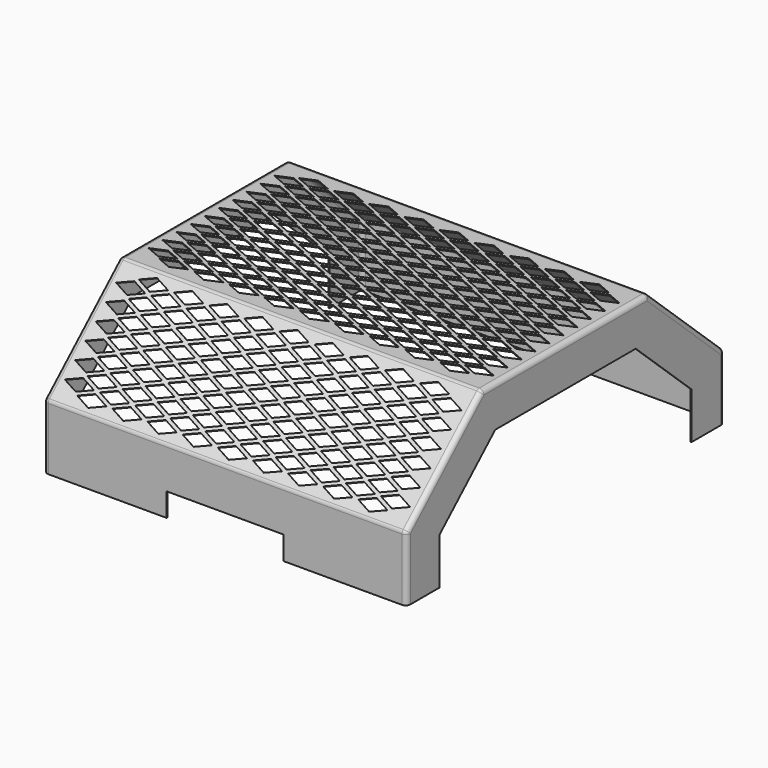
from build123d import *

# Parameters (mm, degrees)
F1_DEPTH = 196.85
F2_R     = 5.08
F3_T     = -0.9525
F4_W     = 127
F4_H     = 25.4
F5_DEPTH = 25.4
F7_DEPTH = 25.4
F9_DEPTH = 25.4


with BuildPart() as f1:
    # F0 (on Right) → F1 (new body, symmetric)
    with BuildSketch(Plane.YZ):
        Polygon((112.5929130825, 164.4600917374), (0, 164.4600917374), (-112.5929130825, 164.4600917374), (-215.3791988479, 69.85), (-215.3791988479, 0), (-170.9291988479, 0), (-170.9291988479, 50.3508381483), (-95.25, 120.0100917374), (0, 120.0100917374), (95.25, 120.0100917374), (170.9291988479, 50.3508381483), (170.9291988479, 0), (215.3791988479, 0), (215.3791988479, 69.85), align=None)
    extrude(amount=F1_DEPTH, both=True)

    # F2
    f2_edges = [f1.edges().sort_by_distance(p)[0] for p in [
        (-196.85, 0, 164.460092),
        (196.85, 0, 164.460092),
        (196.85, -163.986056, 117.155046),
        (196.85, -215.379199, 34.925),
        (196.85, 163.986056, 117.155046),
        (196.85, 215.379199, 34.925),
        (-196.85, 215.379199, 34.925),
        (-196.85, 163.986056, 117.155046),
        (-196.85, -163.986056, 117.155046),
        (-196.85, -215.379199, 34.925),
        (0, -215.379199, 69.85),
        (0, -112.592913, 164.460092),
        (0, 112.592913, 164.460092),
        (0, 215.379199, 69.85),
    ]]
    fillet(f2_edges, radius=F2_R)

    # F3
    f3_openings = [f1.faces().sort_by_distance(p)[0] for p in [
        (0, 0, 120.010092),
        (0, 133.089599, 85.180465),
        (0, 170.929199, 25.175419),
        (0, 193.140842, 0),
        (0, -133.089599, 85.180465),
        (0, -170.929199, 25.175419),
        (0, -193.140842, 0),
    ]]
    offset(amount=F3_T, openings=f3_openings)

    # F4 (on face) → F5 (cut)
    with BuildSketch(Plane.XZ.offset(215.3791988479)):
        with Locations((0, 12.7)):
            Rectangle(F4_W, F4_H)
    extrude(amount=-F5_DEPTH, mode=Mode.SUBTRACT)

    # F6 (on face) → F7 (cut)
    with BuildSketch(Plane.XY.offset(164.4600917374)):
        Polygon((0, 6.76275), (-15.875, 0), (0, -6.76275), (15.875, 0), align=None)
        Polygon((0, 25.68575), (-15.875, 18.923), (0, 12.16025), (15.875, 18.923), align=None)
        Polygon((0, 44.60875), (-15.875, 37.846), (0, 31.08325), (15.875, 37.846), align=None)
        Polygon((0, 63.53175), (-15.875, 56.769), (0, 50.00625), (15.875, 56.769), align=None)
        Polygon((0, 82.45475), (-15.875, 75.692), (0, 68.92925), (15.875, 75.692), align=None)
        Polygon((0, 101.37775), (-15.875, 94.615), (0, 87.85225), (15.875, 94.615), align=None)
        Polygon((38.1, 6.76275), (22.225, 0), (38.1, -6.76275), (53.975, 0), align=None)
        Polygon((38.1, 25.68575), (22.225, 18.923), (38.1, 12.16025), (53.975, 18.923), align=None)
        Polygon((38.1, 44.60875), (22.225, 37.846), (38.1, 31.08325), (53.975, 37.846), align=None)
        Polygon((38.1, 63.53175), (22.225, 56.769), (38.1, 50.00625), (53.975, 56.769), align=None)
        Polygon((38.1, 82.45475), (22.225, 75.692), (38.1, 68.92925), (53.975, 75.692), align=None)
        Polygon((38.1, 101.37775), (22.225, 94.615), (38.1, 87.85225), (53.975, 94.615), align=None)
        Polygon((76.2, 6.76275), (60.325, 0), (76.2, -6.76275), (92.075, 0), align=None)
        Polygon((76.2, 25.68575), (60.325, 18.923), (76.2, 12.16025), (92.075, 18.923), align=None)
        Polygon((76.2, 44.60875), (60.325, 37.846), (76.2, 31.08325), (92.075, 37.846), align=None)
        Polygon((76.2, 63.53175), (60.325, 56.769), (76.2, 50.00625), (92.075, 56.769), align=None)
        Polygon((76.2, 82.45475), (60.325, 75.692), (76.2, 68.92925), (92.075, 75.692), align=None)
        Polygon((76.2, 101.37775), (60.325, 94.615), (76.2, 87.85225), (92.075, 94.615), align=None)
        Polygon((114.3, 6.76275), (98.425, 0), (114.3, -6.76275), (130.175, 0), align=None)
        Polygon((114.3, 25.68575), (98.425, 18.923), (114.3, 12.16025), (130.175, 18.923), align=None)
        Polygon((114.3, 44.60875), (98.425, 37.846), (114.3, 31.08325), (130.175, 37.846), align=None)
        Polygon((114.3, 63.53175), (98.425, 56.769), (114.3, 50.00625), (130.175, 56.769), align=None)
        Polygon((114.3, 82.45475), (98.425, 75.692), (114.3, 68.92925), (130.175, 75.692), align=None)
        Polygon((114.3, 101.37775), (98.425, 94.615), (114.3, 87.85225), (130.175, 94.615), align=None)
        Polygon((152.4, 6.76275), (136.525, 0), (152.4, -6.76275), (168.275, 0), align=None)
        Polygon((152.4, 25.68575), (136.525, 18.923), (152.4, 12.16025), (168.275, 18.923), align=None)
        Polygon((152.4, 44.60875), (136.525, 37.846), (152.4, 31.08325), (168.275, 37.846), align=None)
        Polygon((152.4, 63.53175), (136.525, 56.769), (152.4, 50.00625), (168.275, 56.769), align=None)
        Polygon((152.4, 82.45475), (136.525, 75.692), (152.4, 68.92925), (168.275, 75.692), align=None)
        Polygon((152.4, 101.37775), (136.525, 94.615), (152.4, 87.85225), (168.275, 94.615), align=None)
        Polygon((-15.875, -18.923), (0, -25.68575), (15.875, -18.923), (0, -12.16025), align=None)
        Polygon((130.175, -18.923), (114.3, -12.16025), (98.425, -18.923), (114.3, -25.68575), align=None)
        Polygon((53.975, -18.923), (38.1, -12.16025), (22.225, -18.923), (38.1, -25.68575), align=None)
        Polygon((168.275, -18.923), (152.4, -12.16025), (136.525, -18.923), (152.4, -25.68575), align=None)
        Polygon((92.075, -18.923), (76.2, -12.16025), (60.325, -18.923), (76.2, -25.68575), align=None)
        Polygon((-15.875, -37.846), (0, -44.60875), (15.875, -37.846), (0, -31.08325), align=None)
        Polygon((130.175, -37.846), (114.3, -31.08325), (98.425, -37.846), (114.3, -44.60875), align=None)
        Polygon((53.975, -37.846), (38.1, -31.08325), (22.225, -37.846), (38.1, -44.60875), align=None)
        Polygon((168.275, -37.846), (152.4, -31.08325), (136.525, -37.846), (152.4, -44.60875), align=None)
        Polygon((92.075, -37.846), (76.2, -31.08325), (60.325, -37.846), (76.2, -44.60875), align=None)
        Polygon((-15.875, -56.769), (0, -63.53175), (15.875, -56.769), (0, -50.00625), align=None)
        Polygon((130.175, -56.769), (114.3, -50.00625), (98.425, -56.769), (114.3, -63.53175), align=None)
        Polygon((53.975, -56.769), (38.1, -50.00625), (22.225, -56.769), (38.1, -63.53175), align=None)
        Polygon((168.275, -56.769), (152.4, -50.00625), (136.525, -56.769), (152.4, -63.53175), align=None)
        Polygon((92.075, -56.769), (76.2, -50.00625), (60.325, -56.769), (76.2, -63.53175), align=None)
        Polygon((-15.875, -75.692), (0, -82.45475), (15.875, -75.692), (0, -68.92925), align=None)
        Polygon((130.175, -75.692), (114.3, -68.92925), (98.425, -75.692), (114.3, -82.45475), align=None)
        Polygon((53.975, -75.692), (38.1, -68.92925), (22.225, -75.692), (38.1, -82.45475), align=None)
        Polygon((168.275, -75.692), (152.4, -68.92925), (136.525, -75.692), (152.4, -82.45475), align=None)
        Polygon((92.075, -75.692), (76.2, -68.92925), (60.325, -75.692), (76.2, -82.45475), align=None)
        Polygon((-15.875, -94.615), (0, -101.37775), (15.875, -94.615), (0, -87.85225), align=None)
        Polygon((130.175, -94.615), (114.3, -87.85225), (98.425, -94.615), (114.3, -101.37775), align=None)
        Polygon((53.975, -94.615), (38.1, -87.85225), (22.225, -94.615), (38.1, -101.37775), align=None)
        Polygon((168.275, -94.615), (152.4, -87.85225), (136.525, -94.615), (152.4, -101.37775), align=None)
        Polygon((92.075, -94.615), (76.2, -87.85225), (60.325, -94.615), (76.2, -101.37775), align=None)
        Polygon((-22.225, -56.769), (-38.1, -50.00625), (-53.975, -56.769), (-38.1, -63.53175), align=None)
        Polygon((-53.975, 94.615), (-38.1, 87.85225), (-22.225, 94.615), (-38.1, 101.37775), align=None)
        Polygon((-38.1, 63.53175), (-53.975, 56.769), (-38.1, 50.00625), (-22.225, 56.769), align=None)
        Polygon((-22.225, 37.846), (-38.1, 44.60875), (-53.975, 37.846), (-38.1, 31.08325), align=None)
        Polygon((-22.225, 18.923), (-38.1, 25.68575), (-53.975, 18.923), (-38.1, 12.16025), align=None)
        Polygon((-53.975, 0), (-38.1, -6.76275), (-22.225, 0), (-38.1, 6.76275), align=None)
        Polygon((-22.225, 75.692), (-38.1, 82.45475), (-53.975, 75.692), (-38.1, 68.92925), align=None)
        Polygon((-38.1, -31.08325), (-53.975, -37.846), (-38.1, -44.60875), (-22.225, -37.846), align=None)
        Polygon((-38.1, -87.85225), (-53.975, -94.615), (-38.1, -101.37775), (-22.225, -94.615), align=None)
        Polygon((-38.1, -82.45475), (-22.225, -75.692), (-38.1, -68.92925), (-53.975, -75.692), align=None)
        Polygon((-53.975, -18.923), (-38.1, -25.68575), (-22.225, -18.923), (-38.1, -12.16025), align=None)
        Polygon((-60.325, -56.769), (-76.2, -50.00625), (-92.075, -56.769), (-76.2, -63.53175), align=None)
        Polygon((-92.075, 94.615), (-76.2, 87.85225), (-60.325, 94.615), (-76.2, 101.37775), align=None)
        Polygon((-76.2, 63.53175), (-92.075, 56.769), (-76.2, 50.00625), (-60.325, 56.769), align=None)
        Polygon((-60.325, 37.846), (-76.2, 44.60875), (-92.075, 37.846), (-76.2, 31.08325), align=None)
        Polygon((-60.325, 18.923), (-76.2, 25.68575), (-92.075, 18.923), (-76.2, 12.16025), align=None)
        Polygon((-92.075, 0), (-76.2, -6.76275), (-60.325, 0), (-76.2, 6.76275), align=None)
        Polygon((-60.325, 75.692), (-76.2, 82.45475), (-92.075, 75.692), (-76.2, 68.92925), align=None)
        Polygon((-76.2, -31.08325), (-92.075, -37.846), (-76.2, -44.60875), (-60.325, -37.846), align=None)
        Polygon((-76.2, -87.85225), (-92.075, -94.615), (-76.2, -101.37775), (-60.325, -94.615), align=None)
        Polygon((-76.2, -82.45475), (-60.325, -75.692), (-76.2, -68.92925), (-92.075, -75.692), align=None)
        Polygon((-92.075, -18.923), (-76.2, -25.68575), (-60.325, -18.923), (-76.2, -12.16025), align=None)
        Polygon((-98.425, -56.769), (-114.3, -50.00625), (-130.175, -56.769), (-114.3, -63.53175), align=None)
        Polygon((-130.175, 94.615), (-114.3, 87.85225), (-98.425, 94.615), (-114.3, 101.37775), align=None)
        Polygon((-114.3, 63.53175), (-130.175, 56.769), (-114.3, 50.00625), (-98.425, 56.769), align=None)
        Polygon((-98.425, 37.846), (-114.3, 44.60875), (-130.175, 37.846), (-114.3, 31.08325), align=None)
        Polygon((-98.425, 18.923), (-114.3, 25.68575), (-130.175, 18.923), (-114.3, 12.16025), align=None)
        Polygon((-130.175, 0), (-114.3, -6.76275), (-98.425, 0), (-114.3, 6.76275), align=None)
        Polygon((-98.425, 75.692), (-114.3, 82.45475), (-130.175, 75.692), (-114.3, 68.92925), align=None)
        Polygon((-114.3, -31.08325), (-130.175, -37.846), (-114.3, -44.60875), (-98.425, -37.846), align=None)
        Polygon((-114.3, -87.85225), (-130.175, -94.615), (-114.3, -101.37775), (-98.425, -94.615), align=None)
        Polygon((-114.3, -82.45475), (-98.425, -75.692), (-114.3, -68.92925), (-130.175, -75.692), align=None)
        Polygon((-130.175, -18.923), (-114.3, -25.68575), (-98.425, -18.923), (-114.3, -12.16025), align=None)
        Polygon((-136.525, -56.769), (-152.4, -50.00625), (-168.275, -56.769), (-152.4, -63.53175), align=None)
        Polygon((-168.275, 94.615), (-152.4, 87.85225), (-136.525, 94.615), (-152.4, 101.37775), align=None)
        Polygon((-152.4, 63.53175), (-168.275, 56.769), (-152.4, 50.00625), (-136.525, 56.769), align=None)
        Polygon((-136.525, 37.846), (-152.4, 44.60875), (-168.275, 37.846), (-152.4, 31.08325), align=None)
        Polygon((-136.525, 18.923), (-152.4, 25.68575), (-168.275, 18.923), (-152.4, 12.16025), align=None)
        Polygon((-168.275, 0), (-152.4, -6.76275), (-136.525, 0), (-152.4, 6.76275), align=None)
        Polygon((-136.525, 75.692), (-152.4, 82.45475), (-168.275, 75.692), (-152.4, 68.92925), align=None)
        Polygon((-152.4, -31.08325), (-168.275, -37.846), (-152.4, -44.60875), (-136.525, -37.846), align=None)
        Polygon((-152.4, -87.85225), (-168.275, -94.615), (-152.4, -101.37775), (-136.525, -94.615), align=None)
        Polygon((-152.4, -82.45475), (-136.525, -75.692), (-152.4, -68.92925), (-168.275, -75.692), align=None)
        Polygon((-168.275, -18.923), (-152.4, -25.68575), (-136.525, -18.923), (-152.4, -12.16025), align=None)
        Polygon((171.45, -78.39075), (155.575, -85.1535), (171.45, -91.91625), (187.325, -85.1535), align=None)
        Polygon((155.575, -66.2305), (171.45, -72.99325), (187.325, -66.2305), (171.45, -59.46775), align=None)
        Polygon((155.575, -47.3075), (171.45, -54.07025), (187.325, -47.3075), (171.45, -40.54475), align=None)
        Polygon((155.575, -28.3845), (171.45, -35.14725), (187.325, -28.3845), (171.45, -21.62175), align=None)
        Polygon((155.575, -9.4615), (171.45, -16.22425), (187.325, -9.4615), (171.45, -2.69875), align=None)
        Polygon((155.575, 9.4615), (171.45, 2.69875), (187.325, 9.4615), (171.45, 16.22425), align=None)
        Polygon((155.575, 28.3845), (171.45, 21.62175), (187.325, 28.3845), (171.45, 35.14725), align=None)
        Polygon((155.575, 47.3075), (171.45, 40.54475), (187.325, 47.3075), (171.45, 54.07025), align=None)
        Polygon((155.575, 66.2305), (171.45, 59.46775), (187.325, 66.2305), (171.45, 72.99325), align=None)
        Polygon((155.575, 85.1535), (171.45, 78.39075), (187.325, 85.1535), (171.45, 91.91625), align=None)
        Polygon((117.475, -85.1535), (133.35, -91.91625), (149.225, -85.1535), (133.35, -78.39075), align=None)
        Polygon((117.475, -66.2305), (133.35, -72.99325), (149.225, -66.2305), (133.35, -59.46775), align=None)
        Polygon((117.475, -47.3075), (133.35, -54.07025), (149.225, -47.3075), (133.35, -40.54475), align=None)
        Polygon((117.475, -28.3845), (133.35, -35.14725), (149.225, -28.3845), (133.35, -21.62175), align=None)
        Polygon((117.475, -9.4615), (133.35, -16.22425), (149.225, -9.4615), (133.35, -2.69875), align=None)
        Polygon((117.475, 9.4615), (133.35, 2.69875), (149.225, 9.4615), (133.35, 16.22425), align=None)
        Polygon((117.475, 28.3845), (133.35, 21.62175), (149.225, 28.3845), (133.35, 35.14725), align=None)
        Polygon((117.475, 47.3075), (133.35, 40.54475), (149.225, 47.3075), (133.35, 54.07025), align=None)
        Polygon((117.475, 66.2305), (133.35, 59.46775), (149.225, 66.2305), (133.35, 72.99325), align=None)
        Polygon((117.475, 85.1535), (133.35, 78.39075), (149.225, 85.1535), (133.35, 91.91625), align=None)
        Polygon((79.375, -85.1535), (95.25, -91.91625), (111.125, -85.1535), (95.25, -78.39075), align=None)
        Polygon((79.375, -66.2305), (95.25, -72.99325), (111.125, -66.2305), (95.25, -59.46775), align=None)
        Polygon((79.375, -47.3075), (95.25, -54.07025), (111.125, -47.3075), (95.25, -40.54475), align=None)
        Polygon((79.375, -28.3845), (95.25, -35.14725), (111.125, -28.3845), (95.25, -21.62175), align=None)
        Polygon((79.375, -9.4615), (95.25, -16.22425), (111.125, -9.4615), (95.25, -2.69875), align=None)
        Polygon((79.375, 9.4615), (95.25, 2.69875), (111.125, 9.4615), (95.25, 16.22425), align=None)
        Polygon((79.375, 28.3845), (95.25, 21.62175), (111.125, 28.3845), (95.25, 35.14725), align=None)
        Polygon((79.375, 47.3075), (95.25, 40.54475), (111.125, 47.3075), (95.25, 54.07025), align=None)
        Polygon((79.375, 66.2305), (95.25, 59.46775), (111.125, 66.2305), (95.25, 72.99325), align=None)
        Polygon((79.375, 85.1535), (95.25, 78.39075), (111.125, 85.1535), (95.25, 91.91625), align=None)
        Polygon((41.275, -85.1535), (57.15, -91.91625), (73.025, -85.1535), (57.15, -78.39075), align=None)
        Polygon((41.275, -66.2305), (57.15, -72.99325), (73.025, -66.2305), (57.15, -59.46775), align=None)
        Polygon((41.275, -47.3075), (57.15, -54.07025), (73.025, -47.3075), (57.15, -40.54475), align=None)
        Polygon((41.275, -28.3845), (57.15, -35.14725), (73.025, -28.3845), (57.15, -21.62175), align=None)
        Polygon((41.275, -9.4615), (57.15, -16.22425), (73.025, -9.4615), (57.15, -2.69875), align=None)
        Polygon((41.275, 9.4615), (57.15, 2.69875), (73.025, 9.4615), (57.15, 16.22425), align=None)
        Polygon((41.275, 28.3845), (57.15, 21.62175), (73.025, 28.3845), (57.15, 35.14725), align=None)
        Polygon((41.275, 47.3075), (57.15, 40.54475), (73.025, 47.3075), (57.15, 54.07025), align=None)
        Polygon((41.275, 66.2305), (57.15, 59.46775), (73.025, 66.2305), (57.15, 72.99325), align=None)
        Polygon((41.275, 85.1535), (57.15, 78.39075), (73.025, 85.1535), (57.15, 91.91625), align=None)
        Polygon((3.175, -85.1535), (19.05, -91.91625), (34.925, -85.1535), (19.05, -78.39075), align=None)
        Polygon((3.175, -66.2305), (19.05, -72.99325), (34.925, -66.2305), (19.05, -59.46775), align=None)
        Polygon((3.175, -47.3075), (19.05, -54.07025), (34.925, -47.3075), (19.05, -40.54475), align=None)
        Polygon((3.175, -28.3845), (19.05, -35.14725), (34.925, -28.3845), (19.05, -21.62175), align=None)
        Polygon((3.175, -9.4615), (19.05, -16.22425), (34.925, -9.4615), (19.05, -2.69875), align=None)
        Polygon((3.175, 9.4615), (19.05, 2.69875), (34.925, 9.4615), (19.05, 16.22425), align=None)
        Polygon((3.175, 28.3845), (19.05, 21.62175), (34.925, 28.3845), (19.05, 35.14725), align=None)
        Polygon((3.175, 47.3075), (19.05, 40.54475), (34.925, 47.3075), (19.05, 54.07025), align=None)
        Polygon((3.175, 66.2305), (19.05, 59.46775), (34.925, 66.2305), (19.05, 72.99325), align=None)
        Polygon((3.175, 85.1535), (19.05, 78.39075), (34.925, 85.1535), (19.05, 91.91625), align=None)
        Polygon((-34.925, -85.1535), (-19.05, -91.91625), (-3.175, -85.1535), (-19.05, -78.39075), align=None)
        Polygon((-34.925, -66.2305), (-19.05, -72.99325), (-3.175, -66.2305), (-19.05, -59.46775), align=None)
        Polygon((-34.925, -47.3075), (-19.05, -54.07025), (-3.175, -47.3075), (-19.05, -40.54475), align=None)
        Polygon((-34.925, -28.3845), (-19.05, -35.14725), (-3.175, -28.3845), (-19.05, -21.62175), align=None)
        Polygon((-34.925, -9.4615), (-19.05, -16.22425), (-3.175, -9.4615), (-19.05, -2.69875), align=None)
        Polygon((-34.925, 9.4615), (-19.05, 2.69875), (-3.175, 9.4615), (-19.05, 16.22425), align=None)
        Polygon((-34.925, 28.3845), (-19.05, 21.62175), (-3.175, 28.3845), (-19.05, 35.14725), align=None)
        Polygon((-34.925, 47.3075), (-19.05, 40.54475), (-3.175, 47.3075), (-19.05, 54.07025), align=None)
        Polygon((-34.925, 66.2305), (-19.05, 59.46775), (-3.175, 66.2305), (-19.05, 72.99325), align=None)
        Polygon((-34.925, 85.1535), (-19.05, 78.39075), (-3.175, 85.1535), (-19.05, 91.91625), align=None)
        Polygon((-73.025, -85.1535), (-57.15, -91.91625), (-41.275, -85.1535), (-57.15, -78.39075), align=None)
        Polygon((-73.025, -66.2305), (-57.15, -72.99325), (-41.275, -66.2305), (-57.15, -59.46775), align=None)
        Polygon((-73.025, -47.3075), (-57.15, -54.07025), (-41.275, -47.3075), (-57.15, -40.54475), align=None)
        Polygon((-73.025, -28.3845), (-57.15, -35.14725), (-41.275, -28.3845), (-57.15, -21.62175), align=None)
        Polygon((-73.025, -9.4615), (-57.15, -16.22425), (-41.275, -9.4615), (-57.15, -2.69875), align=None)
        Polygon((-73.025, 9.4615), (-57.15, 2.69875), (-41.275, 9.4615), (-57.15, 16.22425), align=None)
        Polygon((-73.025, 28.3845), (-57.15, 21.62175), (-41.275, 28.3845), (-57.15, 35.14725), align=None)
        Polygon((-73.025, 47.3075), (-57.15, 40.54475), (-41.275, 47.3075), (-57.15, 54.07025), align=None)
        Polygon((-73.025, 66.2305), (-57.15, 59.46775), (-41.275, 66.2305), (-57.15, 72.99325), align=None)
        Polygon((-73.025, 85.1535), (-57.15, 78.39075), (-41.275, 85.1535), (-57.15, 91.91625), align=None)
        Polygon((-111.125, -85.1535), (-95.25, -91.91625), (-79.375, -85.1535), (-95.25, -78.39075), align=None)
        Polygon((-111.125, -66.2305), (-95.25, -72.99325), (-79.375, -66.2305), (-95.25, -59.46775), align=None)
        Polygon((-111.125, -47.3075), (-95.25, -54.07025), (-79.375, -47.3075), (-95.25, -40.54475), align=None)
        Polygon((-111.125, -28.3845), (-95.25, -35.14725), (-79.375, -28.3845), (-95.25, -21.62175), align=None)
        Polygon((-111.125, -9.4615), (-95.25, -16.22425), (-79.375, -9.4615), (-95.25, -2.69875), align=None)
        Polygon((-111.125, 9.4615), (-95.25, 2.69875), (-79.375, 9.4615), (-95.25, 16.22425), align=None)
        Polygon((-111.125, 28.3845), (-95.25, 21.62175), (-79.375, 28.3845), (-95.25, 35.14725), align=None)
        Polygon((-111.125, 47.3075), (-95.25, 40.54475), (-79.375, 47.3075), (-95.25, 54.07025), align=None)
        Polygon((-111.125, 66.2305), (-95.25, 59.46775), (-79.375, 66.2305), (-95.25, 72.99325), align=None)
        Polygon((-111.125, 85.1535), (-95.25, 78.39075), (-79.375, 85.1535), (-95.25, 91.91625), align=None)
        Polygon((-149.225, -85.1535), (-133.35, -91.91625), (-117.475, -85.1535), (-133.35, -78.39075), align=None)
        Polygon((-149.225, -66.2305), (-133.35, -72.99325), (-117.475, -66.2305), (-133.35, -59.46775), align=None)
        Polygon((-149.225, -47.3075), (-133.35, -54.07025), (-117.475, -47.3075), (-133.35, -40.54475), align=None)
        Polygon((-149.225, -28.3845), (-133.35, -35.14725), (-117.475, -28.3845), (-133.35, -21.62175), align=None)
        Polygon((-149.225, -9.4615), (-133.35, -16.22425), (-117.475, -9.4615), (-133.35, -2.69875), align=None)
        Polygon((-149.225, 9.4615), (-133.35, 2.69875), (-117.475, 9.4615), (-133.35, 16.22425), align=None)
        Polygon((-149.225, 28.3845), (-133.35, 21.62175), (-117.475, 28.3845), (-133.35, 35.14725), align=None)
        Polygon((-149.225, 47.3075), (-133.35, 40.54475), (-117.475, 47.3075), (-133.35, 54.07025), align=None)
        Polygon((-149.225, 66.2305), (-133.35, 59.46775), (-117.475, 66.2305), (-133.35, 72.99325), align=None)
        Polygon((-149.225, 85.1535), (-133.35, 78.39075), (-117.475, 85.1535), (-133.35, 91.91625), align=None)
        Polygon((-187.325, -85.1535), (-171.45, -91.91625), (-155.575, -85.1535), (-171.45, -78.39075), align=None)
        Polygon((-187.325, -66.2305), (-171.45, -72.99325), (-155.575, -66.2305), (-171.45, -59.46775), align=None)
        Polygon((-187.325, -47.3075), (-171.45, -54.07025), (-155.575, -47.3075), (-171.45, -40.54475), align=None)
        Polygon((-187.325, -28.3845), (-171.45, -35.14725), (-155.575, -28.3845), (-171.45, -21.62175), align=None)
        Polygon((-187.325, -9.4615), (-171.45, -16.22425), (-155.575, -9.4615), (-171.45, -2.69875), align=None)
        Polygon((-187.325, 9.4615), (-171.45, 2.69875), (-155.575, 9.4615), (-171.45, 16.22425), align=None)
        Polygon((-187.325, 28.3845), (-171.45, 21.62175), (-155.575, 28.3845), (-171.45, 35.14725), align=None)
        Polygon((-187.325, 47.3075), (-171.45, 40.54475), (-155.575, 47.3075), (-171.45, 54.07025), align=None)
        Polygon((-187.325, 66.2305), (-171.45, 59.46775), (-155.575, 66.2305), (-171.45, 72.99325), align=None)
        Polygon((-187.325, 85.1535), (-171.45, 78.39075), (-155.575, 85.1535), (-171.45, 91.91625), align=None)
    extrude(amount=-F7_DEPTH, mode=Mode.SUBTRACT)

    # F8 (on face) → F9 (cut)
    with BuildSketch(Plane(origin=(0, -133.5892010449, 145.133965538), x_dir=(1, 0, 0), z_dir=(0, -0.677237593, 0.7357643935))):
        Polygon((15.875, -41.1900855186), (0, -34.4273355186), (-15.875, -41.1900855186), (0, -47.9528355186), align=None)
        Polygon((0, -29.0298355186), (15.875, -22.2670855186), (0, -15.5043355186), (-15.875, -22.2670855186), align=None)
        Polygon((0, -10.1068355186), (15.875, -3.3440855186), (0, 3.4186644814), (-15.875, -3.3440855186), align=None)
        Polygon((0, 8.8161644814), (15.875, 15.5789144814), (0, 22.3416644814), (-15.875, 15.5789144814), align=None)
        Polygon((38.1, -47.9528355186), (53.975, -41.1900855186), (38.1, -34.4273355186), (22.225, -41.1900855186), align=None)
        Polygon((38.1, -29.0298355186), (53.975, -22.2670855186), (38.1, -15.5043355186), (22.225, -22.2670855186), align=None)
        Polygon((38.1, -10.1068355186), (53.975, -3.3440855186), (38.1, 3.4186644814), (22.225, -3.3440855186), align=None)
        Polygon((38.1, 8.8161644814), (53.975, 15.5789144814), (38.1, 22.3416644814), (22.225, 15.5789144814), align=None)
        Polygon((76.2, -47.9528355186), (92.075, -41.1900855186), (76.2, -34.4273355186), (60.325, -41.1900855186), align=None)
        Polygon((76.2, -29.0298355186), (92.075, -22.2670855186), (76.2, -15.5043355186), (60.325, -22.2670855186), align=None)
        Polygon((76.2, -10.1068355186), (92.075, -3.3440855186), (76.2, 3.4186644814), (60.325, -3.3440855186), align=None)
        Polygon((76.2, 8.8161644814), (92.075, 15.5789144814), (76.2, 22.3416644814), (60.325, 15.5789144814), align=None)
        Polygon((114.3, -47.9528355186), (130.175, -41.1900855186), (114.3, -34.4273355186), (98.425, -41.1900855186), align=None)
        Polygon((114.3, -29.0298355186), (130.175, -22.2670855186), (114.3, -15.5043355186), (98.425, -22.2670855186), align=None)
        Polygon((114.3, -10.1068355186), (130.175, -3.3440855186), (114.3, 3.4186644814), (98.425, -3.3440855186), align=None)
        Polygon((114.3, 8.8161644814), (130.175, 15.5789144814), (114.3, 22.3416644814), (98.425, 15.5789144814), align=None)
        Polygon((152.4, -47.9528355186), (168.275, -41.1900855186), (152.4, -34.4273355186), (136.525, -41.1900855186), align=None)
        Polygon((152.4, -29.0298355186), (168.275, -22.2670855186), (152.4, -15.5043355186), (136.525, -22.2670855186), align=None)
        Polygon((152.4, -10.1068355186), (168.275, -3.3440855186), (152.4, 3.4186644814), (136.525, -3.3440855186), align=None)
        Polygon((152.4, 8.8161644814), (168.275, 15.5789144814), (152.4, 22.3416644814), (136.525, 15.5789144814), align=None)
        Polygon((15.875, -60.1130855186), (0, -53.3503355186), (-15.875, -60.1130855186), (0, -66.8758355186), align=None)
        Polygon((152.4, -66.8758355186), (168.275, -60.1130855186), (152.4, -53.3503355186), (136.525, -60.1130855186), align=None)
        Polygon((114.3, -66.8758355186), (130.175, -60.1130855186), (114.3, -53.3503355186), (98.425, -60.1130855186), align=None)
        Polygon((76.2, -66.8758355186), (92.075, -60.1130855186), (76.2, -53.3503355186), (60.325, -60.1130855186), align=None)
        Polygon((38.1, -66.8758355186), (53.975, -60.1130855186), (38.1, -53.3503355186), (22.225, -60.1130855186), align=None)
        Polygon((15.875, -79.0360855186), (0, -72.2733355186), (-15.875, -79.0360855186), (0, -85.7988355186), align=None)
        Polygon((152.4, -85.7988355186), (168.275, -79.0360855186), (152.4, -72.2733355186), (136.525, -79.0360855186), align=None)
        Polygon((114.3, -85.7988355186), (130.175, -79.0360855186), (114.3, -72.2733355186), (98.425, -79.0360855186), align=None)
        Polygon((76.2, -85.7988355186), (92.075, -79.0360855186), (76.2, -72.2733355186), (60.325, -79.0360855186), align=None)
        Polygon((38.1, -85.7988355186), (53.975, -79.0360855186), (38.1, -72.2733355186), (22.225, -79.0360855186), align=None)
        Polygon((15.875, -97.9590855186), (0, -91.1963355186), (-15.875, -97.9590855186), (0, -104.7218355186), align=None)
        Polygon((152.4, -104.7218355186), (168.275, -97.9590855186), (152.4, -91.1963355186), (136.525, -97.9590855186), align=None)
        Polygon((114.3, -104.7218355186), (130.175, -97.9590855186), (114.3, -91.1963355186), (98.425, -97.9590855186), align=None)
        Polygon((76.2, -104.7218355186), (92.075, -97.9590855186), (76.2, -91.1963355186), (60.325, -97.9590855186), align=None)
        Polygon((38.1, -104.7218355186), (53.975, -97.9590855186), (38.1, -91.1963355186), (22.225, -97.9590855186), align=None)
        Polygon((-22.225, -79.0360855186), (-38.1, -72.2733355186), (-53.975, -79.0360855186), (-38.1, -85.7988355186), align=None)
        Polygon((-38.1, -66.8758355186), (-22.225, -60.1130855186), (-38.1, -53.3503355186), (-53.975, -60.1130855186), align=None)
        Polygon((-38.1, 3.4186644814), (-53.975, -3.3440855186), (-38.1, -10.1068355186), (-22.225, -3.3440855186), align=None)
        Polygon((-22.225, -22.2670855186), (-38.1, -15.5043355186), (-53.975, -22.2670855186), (-38.1, -29.0298355186), align=None)
        Polygon((-38.1, -47.9528355186), (-22.225, -41.1900855186), (-38.1, -34.4273355186), (-53.975, -41.1900855186), align=None)
        Polygon((-53.975, 15.5789144814), (-38.1, 8.8161644814), (-22.225, 15.5789144814), (-38.1, 22.3416644814), align=None)
        Polygon((-38.1, -91.1963355186), (-53.975, -97.9590855186), (-38.1, -104.7218355186), (-22.225, -97.9590855186), align=None)
        Polygon((-60.325, -79.0360855186), (-76.2, -72.2733355186), (-92.075, -79.0360855186), (-76.2, -85.7988355186), align=None)
        Polygon((-76.2, -66.8758355186), (-60.325, -60.1130855186), (-76.2, -53.3503355186), (-92.075, -60.1130855186), align=None)
        Polygon((-76.2, 3.4186644814), (-92.075, -3.3440855186), (-76.2, -10.1068355186), (-60.325, -3.3440855186), align=None)
        Polygon((-60.325, -22.2670855186), (-76.2, -15.5043355186), (-92.075, -22.2670855186), (-76.2, -29.0298355186), align=None)
        Polygon((-76.2, -47.9528355186), (-60.325, -41.1900855186), (-76.2, -34.4273355186), (-92.075, -41.1900855186), align=None)
        Polygon((-92.075, 15.5789144814), (-76.2, 8.8161644814), (-60.325, 15.5789144814), (-76.2, 22.3416644814), align=None)
        Polygon((-76.2, -91.1963355186), (-92.075, -97.9590855186), (-76.2, -104.7218355186), (-60.325, -97.9590855186), align=None)
        Polygon((-98.425, -79.0360855186), (-114.3, -72.2733355186), (-130.175, -79.0360855186), (-114.3, -85.7988355186), align=None)
        Polygon((-114.3, -66.8758355186), (-98.425, -60.1130855186), (-114.3, -53.3503355186), (-130.175, -60.1130855186), align=None)
        Polygon((-114.3, 3.4186644814), (-130.175, -3.3440855186), (-114.3, -10.1068355186), (-98.425, -3.3440855186), align=None)
        Polygon((-98.425, -22.2670855186), (-114.3, -15.5043355186), (-130.175, -22.2670855186), (-114.3, -29.0298355186), align=None)
        Polygon((-114.3, -47.9528355186), (-98.425, -41.1900855186), (-114.3, -34.4273355186), (-130.175, -41.1900855186), align=None)
        Polygon((-130.175, 15.5789144814), (-114.3, 8.8161644814), (-98.425, 15.5789144814), (-114.3, 22.3416644814), align=None)
        Polygon((-114.3, -91.1963355186), (-130.175, -97.9590855186), (-114.3, -104.7218355186), (-98.425, -97.9590855186), align=None)
        Polygon((-136.525, -79.0360855186), (-152.4, -72.2733355186), (-168.275, -79.0360855186), (-152.4, -85.7988355186), align=None)
        Polygon((-152.4, -66.8758355186), (-136.525, -60.1130855186), (-152.4, -53.3503355186), (-168.275, -60.1130855186), align=None)
        Polygon((-152.4, 3.4186644814), (-168.275, -3.3440855186), (-152.4, -10.1068355186), (-136.525, -3.3440855186), align=None)
        Polygon((-136.525, -22.2670855186), (-152.4, -15.5043355186), (-168.275, -22.2670855186), (-152.4, -29.0298355186), align=None)
        Polygon((-152.4, -47.9528355186), (-136.525, -41.1900855186), (-152.4, -34.4273355186), (-168.275, -41.1900855186), align=None)
        Polygon((-168.275, 15.5789144814), (-152.4, 8.8161644814), (-136.525, 15.5789144814), (-152.4, 22.3416644814), align=None)
        Polygon((-152.4, -91.1963355186), (-168.275, -97.9590855186), (-152.4, -104.7218355186), (-136.525, -97.9590855186), align=None)
        Polygon((171.45, -81.7348355186), (155.575, -88.4975855186), (171.45, -95.2603355186), (187.325, -88.4975855186), align=None)
        Polygon((155.575, -69.5745855186), (171.45, -76.3373355186), (187.325, -69.5745855186), (171.45, -62.8118355186), align=None)
        Polygon((155.575, -50.6515855186), (171.45, -57.4143355186), (187.325, -50.6515855186), (171.45, -43.8888355186), align=None)
        Polygon((155.575, -31.7285855186), (171.45, -38.4913355186), (187.325, -31.7285855186), (171.45, -24.9658355186), align=None)
        Polygon((155.575, -12.8055855186), (171.45, -19.5683355186), (187.325, -12.8055855186), (171.45, -6.0428355186), align=None)
        Polygon((155.575, 6.1174144814), (171.45, -0.6453355186), (187.325, 6.1174144814), (171.45, 12.8801644814), align=None)
        Polygon((117.475, -88.4975855186), (133.35, -95.2603355186), (149.225, -88.4975855186), (133.35, -81.7348355186), align=None)
        Polygon((117.475, -69.5745855186), (133.35, -76.3373355186), (149.225, -69.5745855186), (133.35, -62.8118355186), align=None)
        Polygon((117.475, -50.6515855186), (133.35, -57.4143355186), (149.225, -50.6515855186), (133.35, -43.8888355186), align=None)
        Polygon((117.475, -31.7285855186), (133.35, -38.4913355186), (149.225, -31.7285855186), (133.35, -24.9658355186), align=None)
        Polygon((117.475, -12.8055855186), (133.35, -19.5683355186), (149.225, -12.8055855186), (133.35, -6.0428355186), align=None)
        Polygon((117.475, 6.1174144814), (133.35, -0.6453355186), (149.225, 6.1174144814), (133.35, 12.8801644814), align=None)
        Polygon((79.375, -88.4975855186), (95.25, -95.2603355186), (111.125, -88.4975855186), (95.25, -81.7348355186), align=None)
        Polygon((79.375, -69.5745855186), (95.25, -76.3373355186), (111.125, -69.5745855186), (95.25, -62.8118355186), align=None)
        Polygon((79.375, -50.6515855186), (95.25, -57.4143355186), (111.125, -50.6515855186), (95.25, -43.8888355186), align=None)
        Polygon((79.375, -31.7285855186), (95.25, -38.4913355186), (111.125, -31.7285855186), (95.25, -24.9658355186), align=None)
        Polygon((79.375, -12.8055855186), (95.25, -19.5683355186), (111.125, -12.8055855186), (95.25, -6.0428355186), align=None)
        Polygon((79.375, 6.1174144814), (95.25, -0.6453355186), (111.125, 6.1174144814), (95.25, 12.8801644814), align=None)
        Polygon((41.275, -88.4975855186), (57.15, -95.2603355186), (73.025, -88.4975855186), (57.15, -81.7348355186), align=None)
        Polygon((41.275, -69.5745855186), (57.15, -76.3373355186), (73.025, -69.5745855186), (57.15, -62.8118355186), align=None)
        Polygon((41.275, -50.6515855186), (57.15, -57.4143355186), (73.025, -50.6515855186), (57.15, -43.8888355186), align=None)
        Polygon((41.275, -31.7285855186), (57.15, -38.4913355186), (73.025, -31.7285855186), (57.15, -24.9658355186), align=None)
        Polygon((41.275, -12.8055855186), (57.15, -19.5683355186), (73.025, -12.8055855186), (57.15, -6.0428355186), align=None)
        Polygon((41.275, 6.1174144814), (57.15, -0.6453355186), (73.025, 6.1174144814), (57.15, 12.8801644814), align=None)
        Polygon((3.175, -88.4975855186), (19.05, -95.2603355186), (34.925, -88.4975855186), (19.05, -81.7348355186), align=None)
        Polygon((3.175, -69.5745855186), (19.05, -76.3373355186), (34.925, -69.5745855186), (19.05, -62.8118355186), align=None)
        Polygon((3.175, -50.6515855186), (19.05, -57.4143355186), (34.925, -50.6515855186), (19.05, -43.8888355186), align=None)
        Polygon((3.175, -31.7285855186), (19.05, -38.4913355186), (34.925, -31.7285855186), (19.05, -24.9658355186), align=None)
        Polygon((3.175, -12.8055855186), (19.05, -19.5683355186), (34.925, -12.8055855186), (19.05, -6.0428355186), align=None)
        Polygon((3.175, 6.1174144814), (19.05, -0.6453355186), (34.925, 6.1174144814), (19.05, 12.8801644814), align=None)
        Polygon((-34.925, -88.4975855186), (-19.05, -95.2603355186), (-3.175, -88.4975855186), (-19.05, -81.7348355186), align=None)
        Polygon((-34.925, -69.5745855186), (-19.05, -76.3373355186), (-3.175, -69.5745855186), (-19.05, -62.8118355186), align=None)
        Polygon((-34.925, -50.6515855186), (-19.05, -57.4143355186), (-3.175, -50.6515855186), (-19.05, -43.8888355186), align=None)
        Polygon((-34.925, -31.7285855186), (-19.05, -38.4913355186), (-3.175, -31.7285855186), (-19.05, -24.9658355186), align=None)
        Polygon((-34.925, -12.8055855186), (-19.05, -19.5683355186), (-3.175, -12.8055855186), (-19.05, -6.0428355186), align=None)
        Polygon((-34.925, 6.1174144814), (-19.05, -0.6453355186), (-3.175, 6.1174144814), (-19.05, 12.8801644814), align=None)
        Polygon((-73.025, -88.4975855186), (-57.15, -95.2603355186), (-41.275, -88.4975855186), (-57.15, -81.7348355186), align=None)
        Polygon((-73.025, -69.5745855186), (-57.15, -76.3373355186), (-41.275, -69.5745855186), (-57.15, -62.8118355186), align=None)
        Polygon((-73.025, -50.6515855186), (-57.15, -57.4143355186), (-41.275, -50.6515855186), (-57.15, -43.8888355186), align=None)
        Polygon((-73.025, -31.7285855186), (-57.15, -38.4913355186), (-41.275, -31.7285855186), (-57.15, -24.9658355186), align=None)
        Polygon((-73.025, -12.8055855186), (-57.15, -19.5683355186), (-41.275, -12.8055855186), (-57.15, -6.0428355186), align=None)
        Polygon((-73.025, 6.1174144814), (-57.15, -0.6453355186), (-41.275, 6.1174144814), (-57.15, 12.8801644814), align=None)
        Polygon((-111.125, -88.4975855186), (-95.25, -95.2603355186), (-79.375, -88.4975855186), (-95.25, -81.7348355186), align=None)
        Polygon((-111.125, -69.5745855186), (-95.25, -76.3373355186), (-79.375, -69.5745855186), (-95.25, -62.8118355186), align=None)
        Polygon((-111.125, -50.6515855186), (-95.25, -57.4143355186), (-79.375, -50.6515855186), (-95.25, -43.8888355186), align=None)
        Polygon((-111.125, -31.7285855186), (-95.25, -38.4913355186), (-79.375, -31.7285855186), (-95.25, -24.9658355186), align=None)
        Polygon((-111.125, -12.8055855186), (-95.25, -19.5683355186), (-79.375, -12.8055855186), (-95.25, -6.0428355186), align=None)
        Polygon((-111.125, 6.1174144814), (-95.25, -0.6453355186), (-79.375, 6.1174144814), (-95.25, 12.8801644814), align=None)
        Polygon((-149.225, -88.4975855186), (-133.35, -95.2603355186), (-117.475, -88.4975855186), (-133.35, -81.7348355186), align=None)
        Polygon((-149.225, -69.5745855186), (-133.35, -76.3373355186), (-117.475, -69.5745855186), (-133.35, -62.8118355186), align=None)
        Polygon((-149.225, -50.6515855186), (-133.35, -57.4143355186), (-117.475, -50.6515855186), (-133.35, -43.8888355186), align=None)
        Polygon((-149.225, -31.7285855186), (-133.35, -38.4913355186), (-117.475, -31.7285855186), (-133.35, -24.9658355186), align=None)
        Polygon((-149.225, -12.8055855186), (-133.35, -19.5683355186), (-117.475, -12.8055855186), (-133.35, -6.0428355186), align=None)
        Polygon((-149.225, 6.1174144814), (-133.35, -0.6453355186), (-117.475, 6.1174144814), (-133.35, 12.8801644814), align=None)
        Polygon((-187.325, -88.4975855186), (-171.45, -95.2603355186), (-155.575, -88.4975855186), (-171.45, -81.7348355186), align=None)
        Polygon((-187.325, -69.5745855186), (-171.45, -76.3373355186), (-155.575, -69.5745855186), (-171.45, -62.8118355186), align=None)
        Polygon((-187.325, -50.6515855186), (-171.45, -57.4143355186), (-155.575, -50.6515855186), (-171.45, -43.8888355186), align=None)
        Polygon((-187.325, -31.7285855186), (-171.45, -38.4913355186), (-155.575, -31.7285855186), (-171.45, -24.9658355186), align=None)
        Polygon((-187.325, -12.8055855186), (-171.45, -19.5683355186), (-155.575, -12.8055855186), (-171.45, -6.0428355186), align=None)
        Polygon((-187.325, 6.1174144814), (-171.45, -0.6453355186), (-155.575, 6.1174144814), (-171.45, 12.8801644814), align=None)
    extrude(amount=-F9_DEPTH, mode=Mode.SUBTRACT)


solid = f1.part
